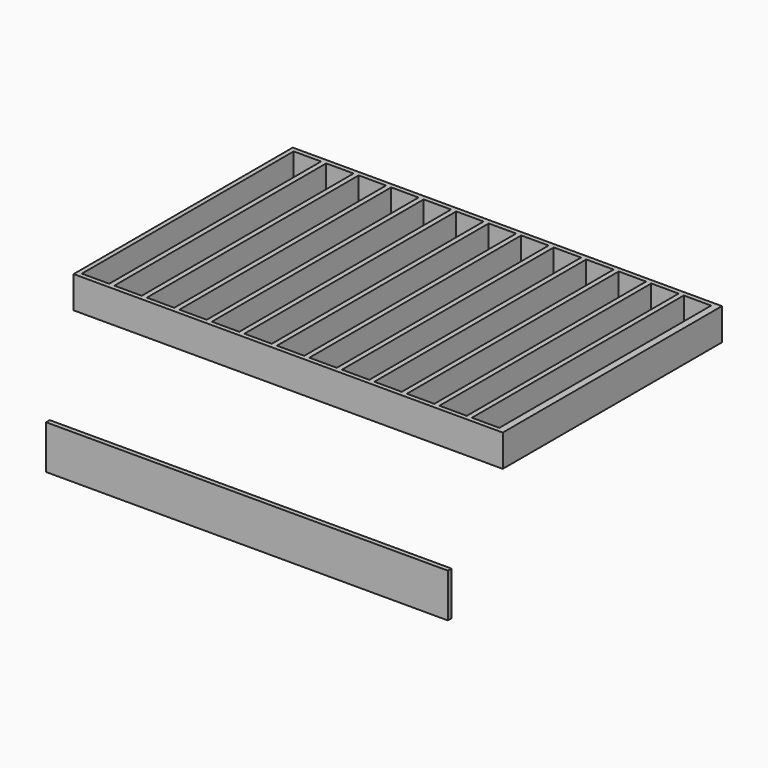
from build123d import *

# Parameters (mm, degrees)
F0_W     = 298.45
F0_H     = 190.5
F1_DEPTH = 22.225
F2_W     = 279.4
F2_H     = 30.48
F3_DEPTH = 3.175
F4_W     = 19.05
F4_H     = 184.15
F5_DEPTH = 19.05


with BuildPart() as f1:
    # F0 (on Top) → F1 (new body)
    with BuildSketch(Plane.XY):
        with Locations((34.980681, 55.79597)):
            Rectangle(F0_W, F0_H)
    extrude(amount=F1_DEPTH)

    # F4 (on face) → F5 (cut)
    with BuildSketch(Plane.XY.offset(22.225)):
        with Locations((-101.544319, 55.79597)):
            Rectangle(F4_W, F4_H)
        with Locations((-78.938319, 55.79597)):
            Rectangle(F4_W, F4_H)
        with Locations((-56.332319, 55.79597)):
            Rectangle(F4_W, F4_H)
        with Locations((-33.726319, 55.79597)):
            Rectangle(F4_W, F4_H)
        with Locations((-11.120319, 55.79597)):
            Rectangle(F4_W, F4_H)
        with Locations((11.485681, 55.79597)):
            Rectangle(F4_W, F4_H)
        with Locations((34.091681, 55.79597)):
            Rectangle(F4_W, F4_H)
        with Locations((56.697681, 55.79597)):
            Rectangle(F4_W, F4_H)
        with Locations((79.303681, 55.79597)):
            Rectangle(F4_W, F4_H)
        with Locations((101.909681, 55.79597)):
            Rectangle(F4_W, F4_H)
        with Locations((124.515681, 55.79597)):
            Rectangle(F4_W, F4_H)
        with Locations((147.121681, 55.79597)):
            Rectangle(F4_W, F4_H)
        with Locations((169.727681, 55.79597)):
            Rectangle(F4_W, F4_H)
    extrude(amount=-F5_DEPTH, mode=Mode.SUBTRACT)


with BuildPart() as f3:
    # F2 (on Front) → F3 (new body)
    with BuildSketch(Plane.XZ):
        with Locations((-22.723939, -114.154501)):
            Rectangle(F2_W, F2_H)
    extrude(amount=F3_DEPTH)


solid = Compound([f1.part, f3.part])
